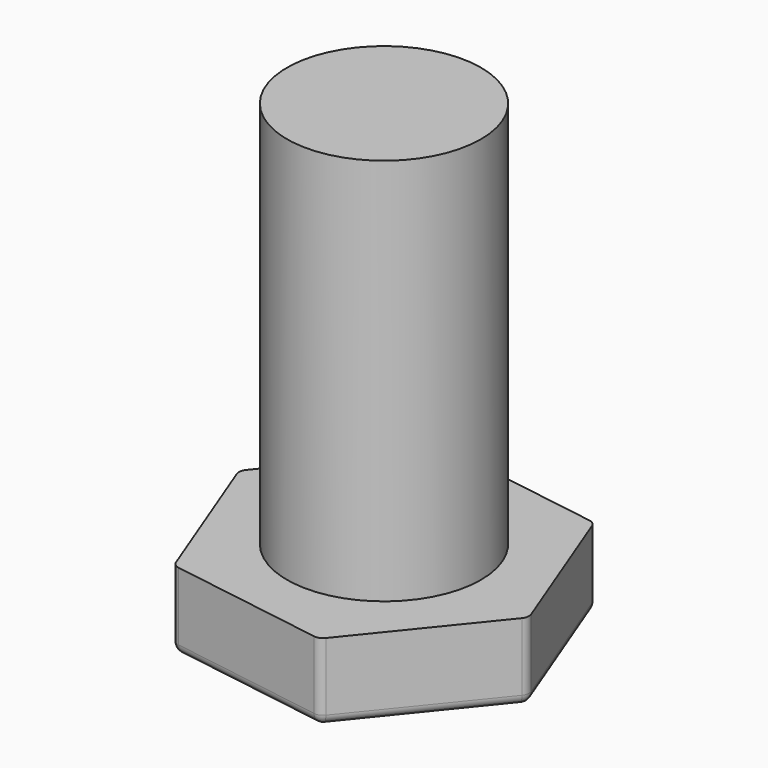
from build123d import *

# Parameters (mm, degrees)
F1_DEPTH = 4
F2_R     = 5
F3_DEPTH = 20
F4_R     = 0.5


with BuildPart() as f1:
    # F0 (on Top) → F1 (new body)
    with BuildSketch(Plane.XY):
        Polygon((8.554517, -1.349162), (5.445667, 6.733848), (-3.10885, 8.08301), (-8.554517, 1.349162), (-5.445667, -6.733848), (3.10885, -8.08301), align=None)
    extrude(amount=F1_DEPTH)

    # F2 (on face) → F3 (join)
    with BuildSketch(Plane.XY.offset(4)):
        Circle(F2_R)
    extrude(amount=F3_DEPTH)

    # F4
    f4_edges = [f1.edges().sort_by_distance(p)[0] for p in [
        (7.000092, 2.692343, 0),
        (1.168409, 7.408429, 0),
        (-5.831684, 4.716086, 0),
        (-7.000092, -2.692343, 0),
        (-1.168409, -7.408429, 0),
        (5.831684, -4.716086, 0),
        (8.554517, -1.349162, 2),
        (5.445667, 6.733848, 2),
        (-3.10885, 8.08301, 2),
        (3.10885, -8.08301, 2),
        (-8.554517, 1.349162, 2),
        (-5.445667, -6.733848, 2),
    ]]
    fillet(f4_edges, radius=F4_R)


solid = f1.part
